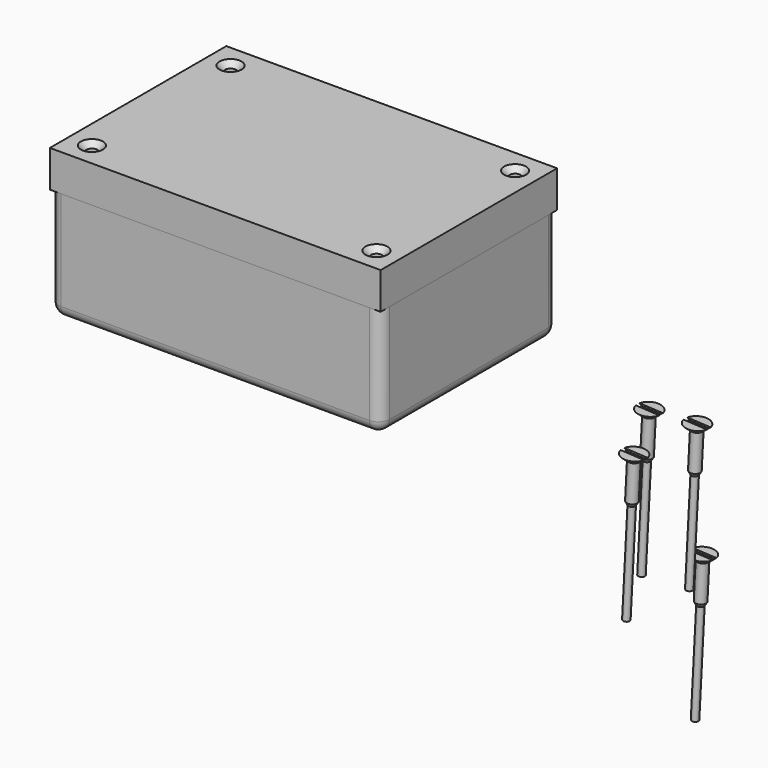
from build123d import *

# Parameters (mm, degrees)
SKETCH_W                = 90
SKETCH_H                = 60
PAD_DEPTH               = 30
COPYSKETCH001_R         = 1.5
POCKET_DEPTH            = 27
FILLET_R                = 3
FILLET001_R             = 3
SKETCH002_W             = 90
SKETCH002_H             = 60
PAD001_DEPTH            = 10
POCKET001_DEPTH         = 7
COPYCOPYSKETCH003_R     = 1.5
POCKET002_DEPTH         = 50
CHAMFER_SIZE            = 1.5
SKETCH004_W             = 1.28
SKETCH004_H             = 6.6
POCKET003_DEPTH         = 0.5
BODY003_PLACEMENT_ANGLE = 93
SKETCH006_W             = 1.28
SKETCH006_H             = 6.6
POCKET004_DEPTH         = 0.5
BODY004_PLACEMENT_ANGLE = 93
SKETCH008_W             = 1.28
SKETCH008_H             = 6.6
POCKET005_DEPTH         = 0.5
BODY005_PLACEMENT_ANGLE = 93
SKETCH009_W             = 1.28
SKETCH009_H             = 6.6
POCKET006_DEPTH         = 0.5
BODY006_PLACEMENT_ANGLE = 93


with BuildPart() as body:
    # Sketch → Pad (new body)
    with BuildSketch(Plane.XY):
        Rectangle(SKETCH_W, SKETCH_H)
    extrude(amount=PAD_DEPTH)

    # CopySketch001 → Pocket (cut)
    with BuildSketch(Plane.XY.offset(30)):
        with Locations((38.710644, 23.576288)):
            Circle(COPYSKETCH001_R)
        with Locations((-38.710644, 23.576288)):
            Circle(COPYSKETCH001_R)
        with Locations((-38.710644, -23.576288)):
            Circle(COPYSKETCH001_R)
        with Locations((38.710644, -23.576288)):
            Circle(COPYSKETCH001_R)
        Polygon((-40.40091, 14.406335), (-31.032991, 22.77944), (29.276764, 22.77944), (39.69909, 15.762182), (39.69909, -16.571888), (30.85909, -25.50056), (-30.08091, -25.50056), (-40.40091, -18.333665), align=None)
    extrude(amount=-POCKET_DEPTH, mode=Mode.SUBTRACT)

    # Fillet
    fillet_edges = [body.edges().sort_by_distance(p)[0] for p in [
        (-45, -30, 15),
        (-45, 30, 15),
        (45, -30, 15),
        (45, 30, 15),
    ]]
    fillet(fillet_edges, radius=FILLET_R)

    # Fillet001
    fillet001_edges = [body.edges().sort_by_distance(p)[0] for p in [
        (45, 0, 0),
        (0, 30, 0),
        (-45, 0, 0),
        (0, -30, 0),
        (44.12132, -29.12132, 0),
        (44.12132, 29.12132, 0),
        (-44.12132, 29.12132, 0),
        (-44.12132, -29.12132, 0),
    ]]
    fillet(fillet001_edges, radius=FILLET001_R)


with BuildPart() as body002:
    # Sketch002 → Pad001 (new body)
    with BuildSketch(Plane.XY.offset(30)):
        Rectangle(SKETCH002_W, SKETCH002_H)
    extrude(amount=PAD001_DEPTH)

    # CopyCopySketch002 → Pocket001 (cut)
    with BuildSketch(Plane.XY.offset(30)):
        Polygon((-40.40091, 14.406335), (-30.083236, 22.77944), (29.276764, 22.77944), (39.69909, 15.762182), (39.69909, -16.571888), (30.85909, -25.50056), (-30.08091, -25.50056), (-40.40091, -18.333665), align=None)
    extrude(amount=-POCKET001_DEPTH, mode=Mode.SUBTRACT)

    # CopyCopySketch003 → Pocket002 (cut)
    with BuildSketch(Plane.XY.offset(30)):
        with Locations((38.710644, 23.576288)):
            Circle(COPYCOPYSKETCH003_R)
        with Locations((-38.710644, 23.576288)):
            Circle(COPYCOPYSKETCH003_R)
        with Locations((-38.710644, -23.576288)):
            Circle(COPYCOPYSKETCH003_R)
        with Locations((38.710644, -23.576288)):
            Circle(COPYCOPYSKETCH003_R)
    extrude(amount=POCKET002_DEPTH, mode=Mode.SUBTRACT)

    # Chamfer
    chamfer_edges = [body002.edges().sort_by_distance(p)[0] for p in [
        (37.210644, 23.576288, 40),
        (37.210644, -23.576288, 40),
        (-40.210644, -23.576288, 40),
        (-40.210644, 23.576288, 40),
    ]]
    chamfer(chamfer_edges, length=CHAMFER_SIZE)


with BuildPart() as body003:
    # Sketch003 → Revolution (revolve)
    with BuildSketch(Plane.XY):
        Polygon((0, 0), (0, 3.25), (1.47, 1.46), (11.47, 1.46), (12.42, 0.91), (40.42, 0.91), (38.54, 0), align=None)
    revolve(axis=Axis((0, 0, 0), (1, 0, 0)))

    # Sketch004 (on Face1 of Revolution) → Pocket003 (cut)
    with BuildSketch(Plane(origin=(0, 0, 0), x_dir=(0, -1, 0), z_dir=(-1, 0, 0))):
        with Locations((-0.037328, 0.011301)):
            Rectangle(SKETCH004_W, SKETCH004_H)
    extrude(amount=-POCKET003_DEPTH, mode=Mode.SUBTRACT)


with BuildPart() as body003_1:
    # Body003 placement: moved
    add(body003.part.moved(Location((92.01, 20.8058, -33.41))).rotate(Axis((92.01, 20.8058, -33.41), (0, 1, 0)), BODY003_PLACEMENT_ANGLE))


with BuildPart() as body004:
    # Sketch005 → Revolution001 (revolve)
    with BuildSketch(Plane.XY):
        Polygon((0, 0), (0, 3.25), (1.47, 1.46), (11.47, 1.46), (12.42, 0.91), (40.42, 0.91), (38.54, 0), align=None)
    revolve(axis=Axis((0, 0, 0), (1, 0, 0)))

    # Sketch006 (on Face1 of Revolution001) → Pocket004 (cut)
    with BuildSketch(Plane(origin=(0, 0, 0), x_dir=(0, -1, 0), z_dir=(-1, 0, 0))):
        with Locations((-0.037328, 0.011301)):
            Rectangle(SKETCH006_W, SKETCH006_H)
    extrude(amount=-POCKET004_DEPTH, mode=Mode.SUBTRACT)


with BuildPart() as body004_1:
    # Body004 placement: moved
    add(body004.part.moved(Location((91.81, -2.31, -0.09509))).rotate(Axis((91.81, -2.31, -0.09509), (0, 1, 0)), BODY004_PLACEMENT_ANGLE))


with BuildPart() as body005:
    # Sketch007 → Revolution002 (revolve)
    with BuildSketch(Plane.XY):
        Polygon((0, 0), (0, 3.25), (1.47, 1.46), (11.47, 1.46), (12.42, 0.91), (40.42, 0.91), (38.54, 0), align=None)
    revolve(axis=Axis((0, 0, 0), (1, 0, 0)))

    # Sketch008 (on Face1 of Revolution002) → Pocket005 (cut)
    with BuildSketch(Plane(origin=(0, 0, 0), x_dir=(0, -1, 0), z_dir=(-1, 0, 0))):
        with Locations((-0.037328, 0.011301)):
            Rectangle(SKETCH008_W, SKETCH008_H)
    extrude(amount=-POCKET005_DEPTH, mode=Mode.SUBTRACT)


with BuildPart() as body005_1:
    # Body005 placement: moved
    add(body005.part.moved(Location((93.81, 16.6, 0.17))).rotate(Axis((93.81, 16.6, 0.17), (0, 1, 0)), BODY005_PLACEMENT_ANGLE))


with BuildPart() as body006:
    # Sketch010 → Revolution003 (revolve)
    with BuildSketch(Plane.XY):
        Polygon((0, 0), (0, 3.25), (1.47, 1.46), (11.47, 1.46), (12.42, 0.91), (40.42, 0.91), (38.54, 0), align=None)
    revolve(axis=Axis((0, 0, 0), (1, 0, 0)))

    # Sketch009 (on Face1 of Revolution003) → Pocket006 (cut)
    with BuildSketch(Plane(origin=(0, 0, 0), x_dir=(0, -1, 0), z_dir=(-1, 0, 0))):
        with Locations((-0.037328, 0.011301)):
            Rectangle(SKETCH009_W, SKETCH009_H)
    extrude(amount=-POCKET006_DEPTH, mode=Mode.SUBTRACT)


with BuildPart() as body006_1:
    # Body006 placement: moved
    add(body006.part.moved(Location((81.6, 15.6, 0.02081))).rotate(Axis((81.6, 15.6, 0.02081), (0, 1, 0)), BODY006_PLACEMENT_ANGLE))


solid = Compound([body.part, body002.part, body003_1.part, body004_1.part, body005_1.part, body006_1.part])
